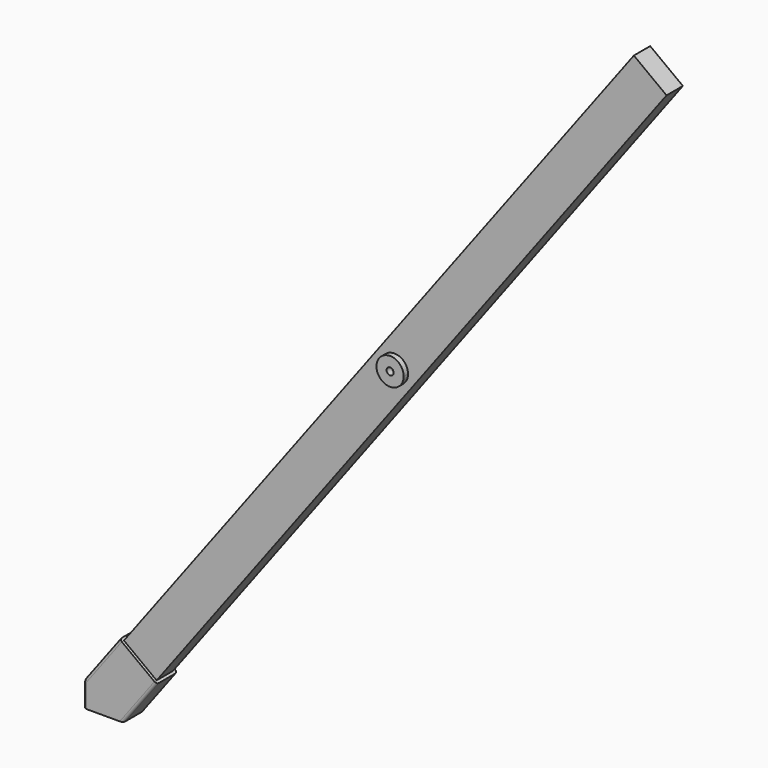
from build123d import *

# Parameters (mm, degrees)
F0_R     = 6.35
F2_DEPTH = 9.525
F3_DEPTH = 12.065
F4_DEPTH = 9.525
F5_R     = 6.35
F5_R_2   = 6.096
F5_R_3   = 3.302
F6_DEPTH = 5.08
F7_DEPTH = 19.304
F8_R     = 5.08
F9_R     = 2.54


with BuildPart() as f2:
    # F0 (on Front) → F2 (new body, symmetric)
    with BuildSketch(Plane.XZ):
        Polygon((-254, 22.8396208531), (-223.5047262796, 0), (254, 637.5603791469), (223.5047262796, 660.4), align=None)
        with Locations((0, 330.2)):
            Circle(F0_R, mode=Mode.SUBTRACT)
    extrude(amount=F2_DEPTH, both=True)


with BuildPart() as f3:
    # F1 (on Front) → F3 (new body, symmetric)
    with BuildSketch(Plane.XZ):
        Polygon((-288.0084874424, -41.1673467126), (-251.1638513682, -41.1673467126), (-219.9490666413, 0.5103768578), (-221.9820848893, 2.033018248), (-252.4349126935, -38.6273467126), (-282.930186414, -15.7877258594), (-252.4773586098, 24.8726391012), (-254.5103768578, 26.3952804914), (-288.0084874424, -18.3311209653), align=None)
        Polygon((-252.4349126935, -38.6273467126), (-221.9820848893, 2.033018248), (-252.4773586098, 24.8726391012), (-282.930186414, -15.7877258594), align=None)
    extrude(amount=F3_DEPTH, both=True)

    # F1 (on Front) → F4 (cut, symmetric)
    with BuildSketch(Plane.XZ):
        Polygon((-252.4349126935, -38.6273467126), (-221.9820848893, 2.033018248), (-252.4773586098, 24.8726391012), (-282.930186414, -15.7877258594), align=None)
    extrude(amount=F4_DEPTH, both=True, mode=Mode.SUBTRACT)

    # F8
    f8_edges = [f3.edges().sort_by_distance(p)[0] for p in [
        (-288.008487, 0, -18.331121),
    ]]
    fillet(f8_edges, radius=F8_R)

    # F9
    f9_edges = [f3.edges().sort_by_distance(p)[0] for p in [
        (-270.75245, -12.065, 4.708998),
        (-235.556459, -12.065, -20.328485),
        (-235.556459, 12.065, -20.328485),
        (-270.75245, 12.065, 4.708998),
    ]]
    fillet(f9_edges, radius=F9_R)


with BuildPart() as f6:
    # F5 (on face) → F6 (new body)
    with BuildSketch(Plane.XZ.offset(9.525)):
        with BuildLine():
            ThreePointArc((12.7, 330.2), (4.0120660301, 342.2496193372), (-10.1650907355, 337.8132076249))
            ThreePointArc((-10.1650907355, 337.8132076249), (-7.613207358, 320.0349090647), (10.1650911352, 322.5867929088))
            ThreePointArc((10.1650911352, 322.5867929088), (12.0496194425, 326.1879342862), (12.7, 330.2))
        make_face()
        with Locations((0, 330.2)):
            Circle(F5_R, mode=Mode.SUBTRACT)
        with Locations((0, 330.2)):
            Circle(F5_R)
        with Locations((0, 330.2)):
            Circle(F5_R_2, mode=Mode.SUBTRACT)
        with Locations((0, 330.2)):
            Circle(F5_R_2)
        with Locations((0, 330.2)):
            Circle(F5_R_3, mode=Mode.SUBTRACT)
    extrude(amount=F6_DEPTH)

    # F5 (on face) → F7 (join)
    with BuildSketch(Plane.XZ.offset(9.525)):
        with Locations((0, 330.2)):
            Circle(F5_R_2)
        with Locations((0, 330.2)):
            Circle(F5_R_3, mode=Mode.SUBTRACT)
    extrude(amount=-F7_DEPTH)


solid = Compound([f2.part, f3.part, f6.part])
